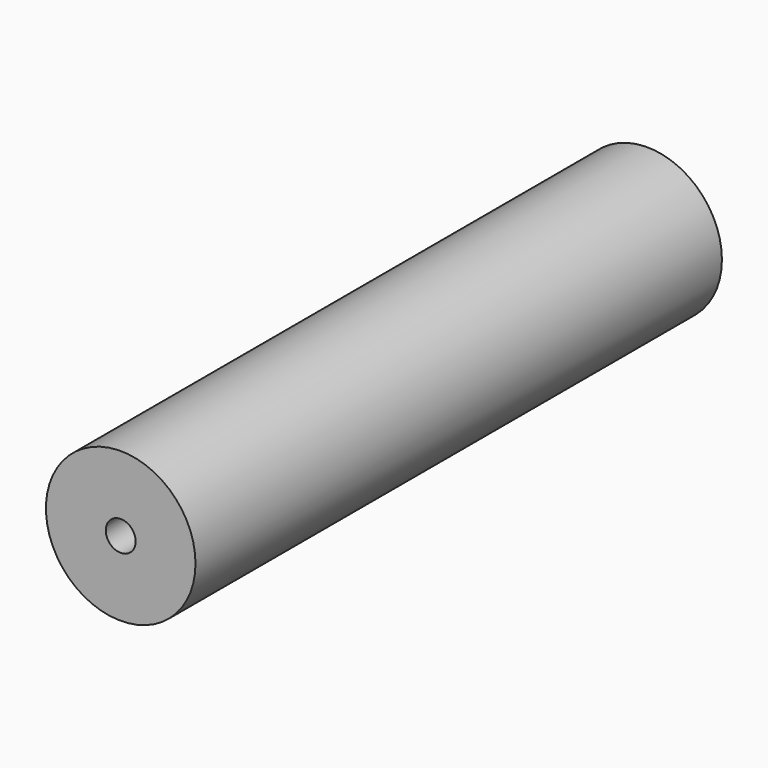
from build123d import *

# Parameters (mm, degrees)
F0_R     = 125
F1_DEPTH = 1100
F2_R     = 25
F3_DEPTH = 50
F4_R     = 25
F5_DEPTH = 50


with BuildPart() as f1:
    # F0 (on Front) → F1 (new body)
    with BuildSketch(Plane.XZ):
        Circle(F0_R)
    extrude(amount=-F1_DEPTH)

    # F2 (on face) → F3 (cut)
    with BuildSketch(Plane.XZ):
        Circle(F2_R)
    extrude(amount=-F3_DEPTH, mode=Mode.SUBTRACT)

    # F4 (on face) → F5 (cut)
    with BuildSketch(Plane(origin=(0, 1100, 0), x_dir=(-1, 0, 0), z_dir=(0, 1, 0))):
        Circle(F4_R)
    extrude(amount=-F5_DEPTH, mode=Mode.SUBTRACT)


solid = f1.part
